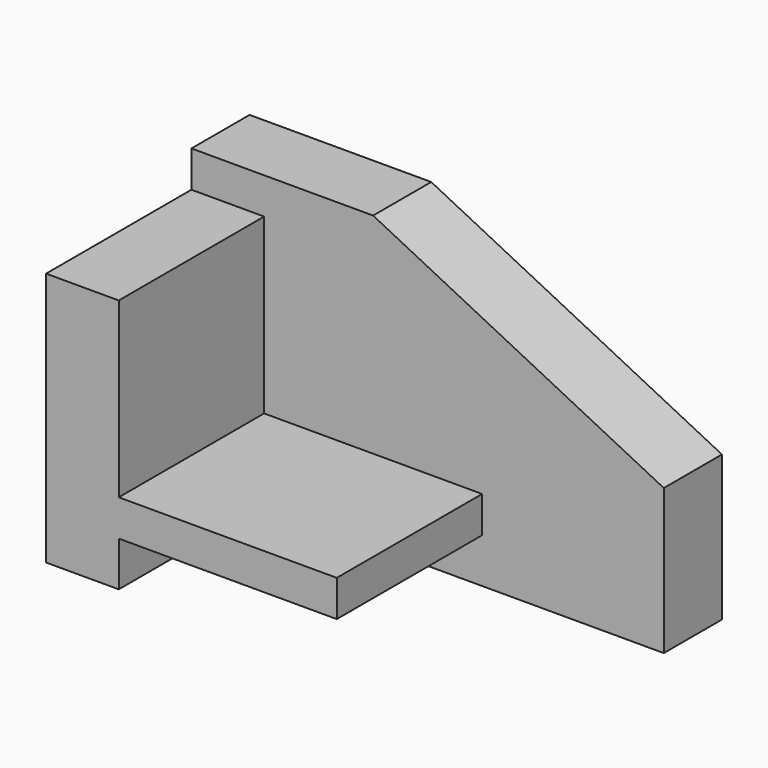
from build123d import *

# Parameters (mm, degrees)
F1_DEPTH = 10
F2_DEPTH = 35
F0_W     = 10
F0_H     = 15
F3_DEPTH = 35
F0_W_2   = 30
F0_H_2   = 5
F4_DEPTH = 35


with BuildPart() as f1:
    # F0 (on Front) → F1 (new body)
    with BuildSketch(Plane.XZ):
        Polygon((-22.5, -20), (32.5, -20), (32.5, 0), (-7.5, 20), (-32.5, 20), (-32.5, 15), (-22.5, 15), (-22.5, 0), (-22.5, -8.847731), (7.5, -8.847731), (7.5, -13.847731), (-22.5, -13.847731), align=None)
    extrude(amount=F1_DEPTH)

    # F0 (on Front) → F2 (join)
    with BuildSketch(Plane.XZ):
        Polygon((-32.5, -20), (-22.5, -20), (-22.5, -13.847731), (-22.5, -8.847731), (-22.5, 0), (-32.5, 0), align=None)
    extrude(amount=F2_DEPTH)

    # F0 (on Front) → F3 (join)
    with BuildSketch(Plane.XZ):
        with Locations((-27.5, 7.5)):
            Rectangle(F0_W, F0_H)
    extrude(amount=F3_DEPTH)

    # F0 (on Front) → F4 (join)
    with BuildSketch(Plane.XZ):
        with Locations((-7.5, -11.347731)):
            Rectangle(F0_W_2, F0_H_2)
    extrude(amount=F4_DEPTH)


solid = f1.part
